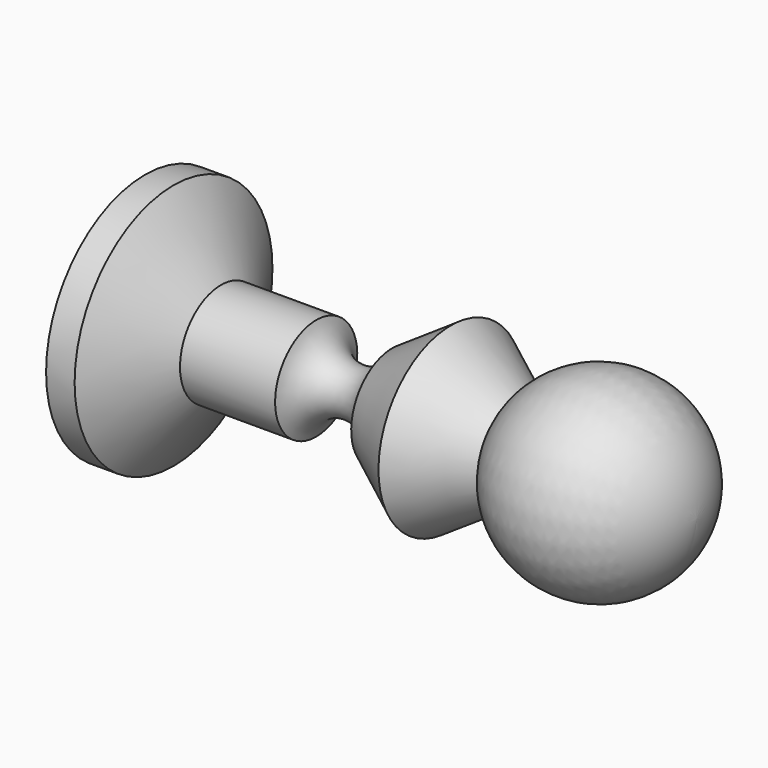
from build123d import *


with BuildPart() as part:
    # Sketch → Revolution (revolve)
    with BuildSketch(Plane.XZ):
        with BuildLine():
            Line((-9, -5), (-15.85, -9.5))
            Line((-15.85, -9.5), (-22, -5.4))
            ThreePointArc((-22, -5.4), (-26, -2.382629), (-30, -5.4))
            Line((-30, -5.4), (-35, -5.4))
            Line((-35, -5.4), (-40, -5.4))
            Line((-40, -5.4), (-45, -13))
            Line((-45, -13), (-48, -13))
            Line((-48, -13), (-48, 0))
            Line((-48, 0), (10, 0))
            ThreePointArc((-9, -5), (2.376805, -9.631857), (10, 0))
        make_face()
    revolve(axis=Axis((0, 0, 0), (1, 0, 0)))


solid = part.part
